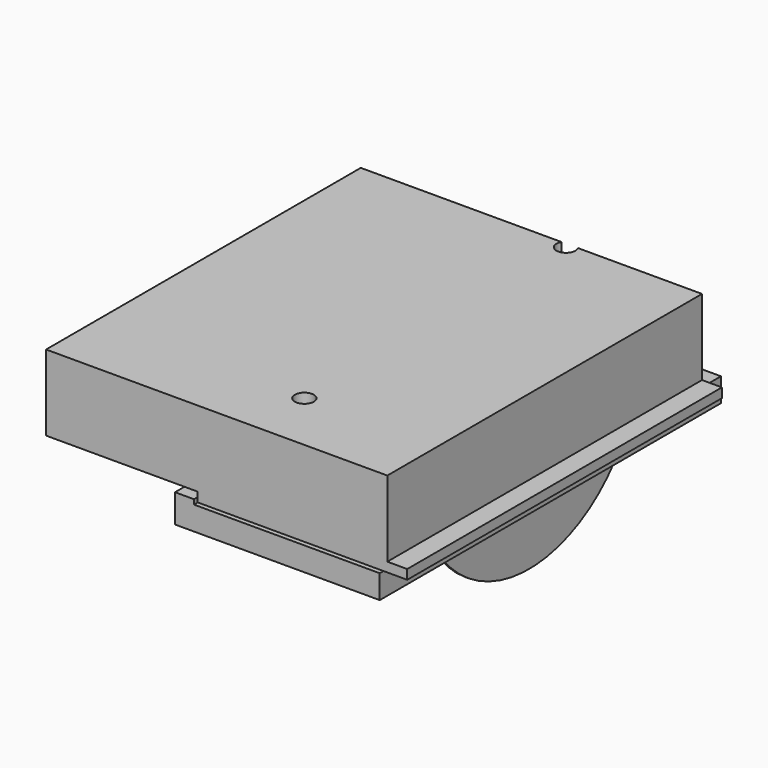
from build123d import *

# Parameters (mm, degrees)
F0_W            = 1.905
F0_H            = 60.96
F1_DEPTH        = 139.7
F1_DEPTH_BACK   = 123.825
F2_W            = 124.46
F2_H            = 15.875
F3_DEPTH        = 142.875
F3_DEPTH_BACK   = 142.875
F6_DEPTH        = 1.905
F7_R            = 6.35
F8_DEPTH        = 57.15
F11_D           = 6.7564
F11_CSINK_D     = 13.4874
F11_CSINK_ANGLE = 82
F12_DEPTH       = 73.025
F14_DEPTH       = 12.7


with BuildPart() as f1:
    # F0 (on Front) → F1 (new body, two sides)
    with BuildSketch(Plane.XZ) as f1_sk:
        Polygon((0, 6.35), (0, 0), (108.2294, 0), (110.1344, 0), (140.335, 0), (140.335, 6.35), (127, 6.35), align=None)
        with Locations((109.1819, -30.48)):
            Rectangle(F0_W, F0_H)
        Polygon((-101.6, 6.35), (0, 6.35), (127, 6.35), (127, 57.15), (-101.6, 57.15), align=None)
    extrude(amount=F1_DEPTH)
    extrude(f1_sk.sketch, amount=-F1_DEPTH_BACK)

    # F5 (on face) → F6 (cut, through all)
    with BuildSketch(Plane.YZ.offset(110.1344)):
        with BuildLine():
            Line((-86.427675689, 0), (-139.7, 0))
            Line((-139.7, 0), (-139.7, -60.96))
            Line((-139.7, -60.96), (-139.7, -88.9))
            Line((-139.7, -88.9), (152.4, -88.9))
            Line((152.4, -88.9), (152.4, 0))
            Line((152.4, 0), (123.825, 0))
            Line((123.825, 0), (86.427675689, 0))
            ThreePointArc((86.427675689, 0), (0, -60.325), (-86.427675689, 0))
        make_face()
    extrude(amount=-F6_DEPTH, mode=Mode.SUBTRACT)

    # F7 (on face) → F8 (cut, through all)
    with BuildSketch(Plane(origin=(0, 0, 0), x_dir=(1, 0, 0), z_dir=(0, 0, -1))):
        with Locations((38.3794, -120.65)):
            Circle(F7_R)
        with Locations((38.3794, 98.425)):
            Circle(F7_R)
    extrude(amount=-F8_DEPTH, mode=Mode.SUBTRACT)


with BuildPart() as f3:
    # F2 (on Front) → F3 (new body, two sides)
    with BuildSketch(Plane.XZ) as f3_sk:
        with Locations((62.23, -7.9375)):
            Rectangle(F2_W, F2_H)
        Polygon((0, -15.875), (0, 0), (0, 3.175), (-12.7, 3.175), (-12.7, -15.875), align=None)
    extrude(amount=F3_DEPTH)
    extrude(f3_sk.sketch, amount=-F3_DEPTH_BACK)

    # F11 (through all)
    with Locations(Plane(origin=(0, 0, -15.875), x_dir=(1, 0, 0), z_dir=(0, 0, -1))):
        with Locations((38.3794, -120.65), (38.3794, 98.425)):
            CounterSinkHole(F11_D / 2, F11_CSINK_D / 2, counter_sink_angle=F11_CSINK_ANGLE)

    # F4 (on face) → F12 (cut, through all)
    with BuildSketch(Plane(origin=(0, 0, -15.875), x_dir=(1, 0, 0), z_dir=(0, 0, -1))):
        with BuildLine():
            Line((112.3569, -85.725), (112.3569, 85.725))
            ThreePointArc((112.3569, 85.725), (111.4269640303, 87.9700640303), (109.1819, 88.9))
            ThreePointArc((109.1819, 88.9), (106.9368359697, 87.9700640303), (106.0069, 85.725))
            Line((106.0069, 85.725), (106.0069, -85.725))
            ThreePointArc((106.0069, -85.725), (106.9368359697, -87.9700640303), (109.1819, -88.9))
            ThreePointArc((109.1819, -88.9), (111.4269640303, -87.9700640303), (112.3569, -85.725))
        make_face()
    extrude(amount=-F12_DEPTH, mode=Mode.SUBTRACT)

    # F13 (on face) → F14 (cut, through all)
    with BuildSketch(Plane.YZ):
        Polygon((-38.1, 0), (0, 0), (38.1, 0), (38.1, 3.175), (0, 3.175), (-38.1, 3.175), align=None)
    extrude(amount=-F14_DEPTH, mode=Mode.SUBTRACT)


solid = Compound([f1.part, f3.part])
